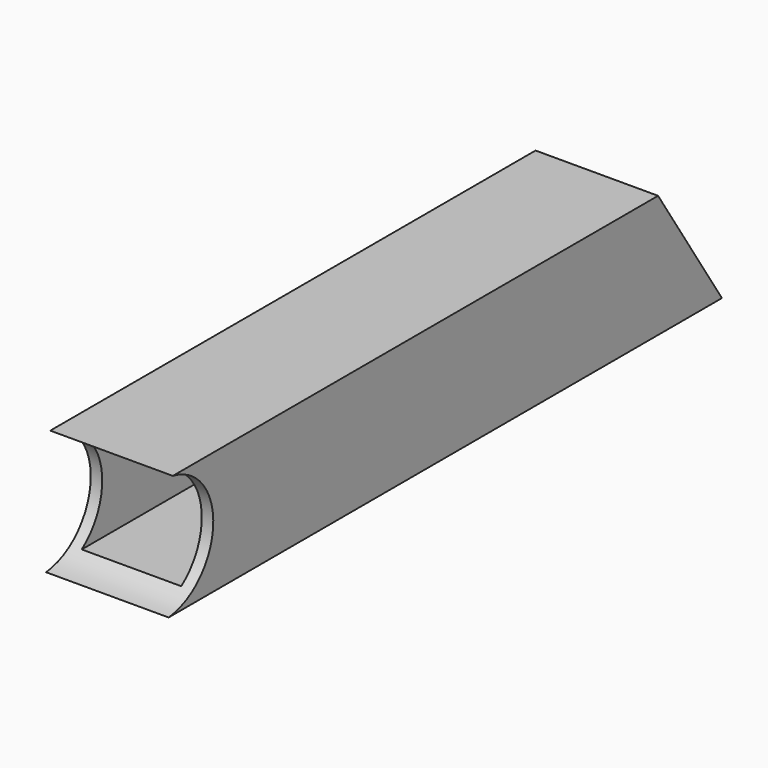
from build123d import *

# Parameters (mm, degrees)
F1_DEPTH = 38.1
F2_T     = -2.54
F3_T     = 2.54


with BuildPart() as f1:
    # F0 (on Right) → F1 (new body, symmetric)
    with BuildSketch(Plane.YZ):
        with BuildLine():
            Line((277.3325320094, 76.2), (-112.5278806646, 76.2))
            ThreePointArc((-112.5278806646, 76.2), (-90.5951741668, 37.8398160871), (-113.4139305449, 0))
            Line((-113.4139305449, 0), (326.9511687087, 0))
            Line((326.9511687087, 0), (277.3325320094, 76.2))
        make_face()
    extrude(amount=F1_DEPTH, both=True)

    # F2
    f2_openings = [f1.faces().sort_by_distance(p)[0] for p in [
        (0, -90.595174, 37.839816),
    ]]
    offset(amount=F2_T, openings=f2_openings)

    # F3
    f3_openings = [f1.faces().sort_by_distance(p)[0] for p in [
        (0, 302.14185, 38.1),
    ]]
    offset(amount=F3_T, openings=f3_openings, kind=Kind.INTERSECTION)


solid = f1.part
